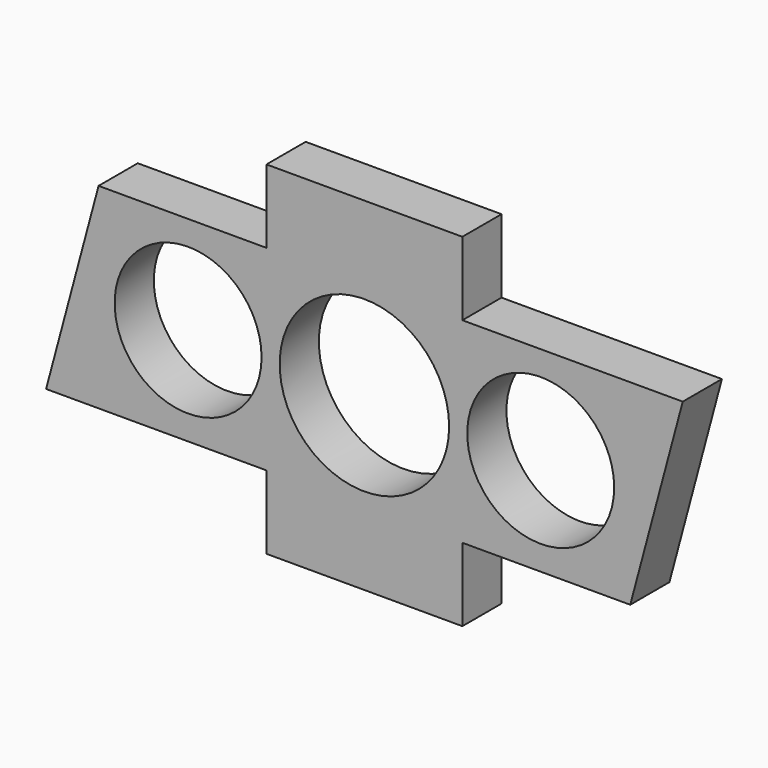
from build123d import *

# Parameters (mm, degrees)
F0_W     = 101.6
F0_H     = 101.6
F1_DEPTH = 6.35
F2_W     = 101.6
F2_H     = 101.6
F2_R     = 9.525
F2_R_2   = 10.9855
F3_DEPTH = 25.4


with BuildPart() as f1:
    # F0 (on Front) → F1 (new body)
    with BuildSketch(Plane.XZ):
        Rectangle(F0_W, F0_H)
    extrude(amount=F1_DEPTH)

    # F2 (on face) → F3 (cut)
    with BuildSketch(Plane.XZ.offset(6.35)):
        Rectangle(F2_W, F2_H)
        Polygon((-12.7, 12.7), (-12.7, 22.225), (12.7, 22.225), (12.7, 12.7), (41.275, 12.7), (41.275, -12.7), (34.469091, -12.7), (12.7, -12.7), (12.7, -22.225), (-12.7, -22.225), (-12.7, -12.7), (-41.275, -12.7), (-41.275, 12.7), (-34.469091, 12.7), align=None, mode=Mode.SUBTRACT)
        Polygon((-41.275, -12.7), (-34.469091, 12.7), (-41.275, 12.7), align=None)
        with Locations((-22.86, 0)):
            Circle(F2_R)
        Circle(F2_R_2)
        with Locations((22.86, 0)):
            Circle(F2_R)
        Polygon((41.275, -12.7), (41.275, 12.7), (34.469091, -12.7), align=None)
    extrude(amount=-F3_DEPTH, mode=Mode.SUBTRACT)


solid = f1.part
